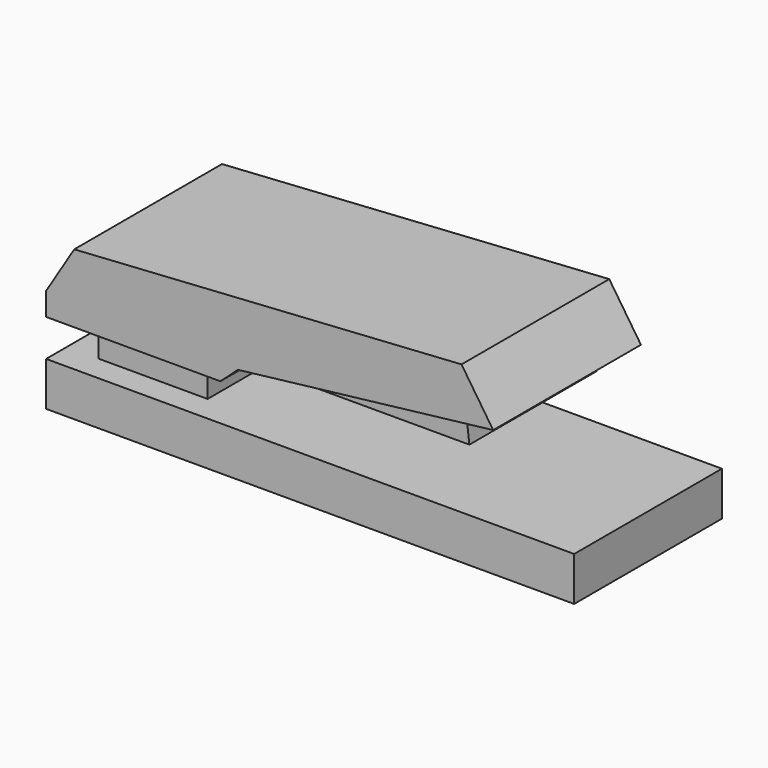
from build123d import *

# Parameters (mm, degrees)
F0_W     = 17.6849197596
F0_H     = 5.9900539927
F1_DEPTH = 25.4
F2_DEPTH = 29.92783
F3_DEPTH = 0.33087


with BuildPart() as f1:
    # F0 (on Front) → F1 (new body)
    with BuildSketch(Plane.XZ):
        Polygon((-27.0978603512, 4.4212299399), (-44.7827801108, 4.4212299399), (-49.9171130359, 4.4212299399), (-49.9171130359, -2.7097861748), (35.6550812721, -2.7097861748), (35.6550812721, 4.4212299399), align=None)
        Polygon((15.317424354, 11.6948666982), (14.7060211414, 16.9097762866), (-18.8258830458, 12.9784494638), (-20.2520862222, 11.6948666982), align=None)
        with Locations((-35.940320231, 7.4162569363)):
            Rectangle(F0_W, F0_H)
        Polygon((17.3996798694, 25.529038161), (-45.3532636166, 21.5356685221), (-49.9171130359, 14.11941275), (-49.9171130359, 10.4112839326), (-44.7827801108, 10.4112839326), (-27.0978603512, 10.4112839326), (-21.6782893986, 10.4112839326), (-20.2520862222, 11.6948666982), (-18.8258830458, 12.9784494638), (14.7060211414, 16.9097762866), (22.5340109318, 17.8275406361), align=None)
    extrude(amount=F1_DEPTH)

    # F0 (on Front) → F2 (join)
    with BuildSketch(Plane.XZ):
        Polygon((17.3996798694, 25.529038161), (-45.3532636166, 21.5356685221), (-49.9171130359, 14.11941275), (-49.9171130359, 10.4112839326), (-44.7827801108, 10.4112839326), (-27.0978603512, 10.4112839326), (-21.6782893986, 10.4112839326), (-20.2520862222, 11.6948666982), (-18.8258830458, 12.9784494638), (14.7060211414, 16.9097762866), (22.5340109318, 17.8275406361), align=None)
        Polygon((-27.0978603512, 4.4212299399), (-44.7827801108, 4.4212299399), (-49.9171130359, 4.4212299399), (-49.9171130359, -2.7097861748), (35.6550812721, -2.7097861748), (35.6550812721, 4.4212299399), align=None)
    extrude(amount=F2_DEPTH)

    # F3 (add): faces of the model
    f3_faces = [f1.faces().sort_by_distance(p)[0] for p in [
        (1.3459851792, -25.4, 13.5050170467),
        (-35.940320231, -25.4, 7.4162569363),
    ]]
    extrude(f3_faces, amount=F3_DEPTH)


solid = f1.part
